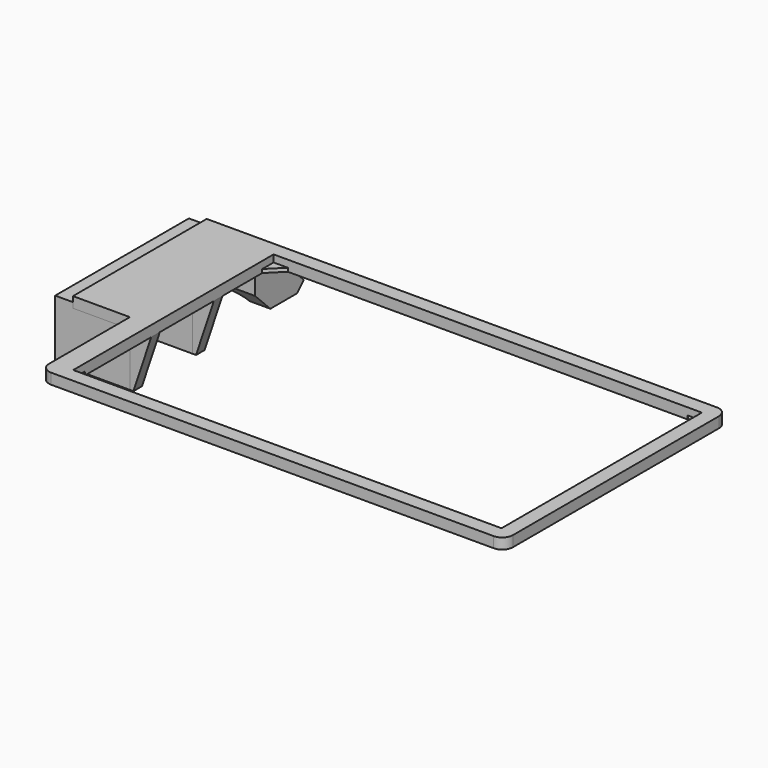
from build123d import *

# Parameters (mm, degrees)
SKETCH_W          = 47
SKETCH_H          = 16.5
SKETCH_R          = 1.6
PAD_DEPTH         = 5
PAD001_DEPTH      = 16
SKETCH002_W       = 6
SKETCH002_H       = 2
POCKET_DEPTH      = 3
PAD002_DEPTH      = 16
PAD002_DEPTH_BACK = 5
SKETCH004_R       = 4.625
POCKET001_DEPTH   = 44.902281
POCKET002_DEPTH   = 16
SKETCH006_W       = 3
SKETCH006_H       = 12
PAD003_DEPTH      = 16
SKETCH008_W       = 1.4
SKETCH008_H       = 16.5
POCKET003_DEPTH   = 1.6
SKETCH007_W       = 120.4
SKETCH007_H       = 70.4
PAD004_DEPTH      = 3
SKETCH009_W       = 6
SKETCH009_H       = 3
PAD005_DEPTH      = 15
POCKET004_DEPTH   = 47.001
PAD006_DEPTH      = 1
SKETCH012_W       = 1.8
SKETCH012_H       = 5.7
PAD007_DEPTH      = 11
SKETCH013_R       = 1.6
POCKET005_DEPTH   = 1.8
FILLET_R          = 3
CHAMFER_SIZE      = 1.2


with BuildPart() as lens_and_arm_mount:
    # Sketch → Pad (new body)
    with BuildSketch(Plane.YZ):
        Rectangle(SKETCH_W, SKETCH_H)
        with Locations((-15.8, 0)):
            Circle(SKETCH_R, mode=Mode.SUBTRACT)
        with Locations((15.8, 0)):
            Circle(SKETCH_R, mode=Mode.SUBTRACT)
    extrude(amount=PAD_DEPTH)

    # Sketch001 (on Face8 of Pad) → Pad001 (join)
    with BuildSketch(Plane.YZ.offset(5)):
        Polygon((-23.5, -8.25), (-23.5, 6.75), (23.5, 6.75), (23.5, -8.25), (20.5, -8.25), (20.5, 3.75), (-20.5, 3.75), (-20.5, -8.25), align=None)
    extrude(amount=PAD001_DEPTH)

    # Sketch002 (on Face11 of Pad001) → Pocket (cut)
    with BuildSketch(Plane(origin=(0, 0, 6.75), x_dir=(0, -1, 0), z_dir=(0, 0, 1))):
        with Locations((-15.8, 6)):
            Rectangle(SKETCH002_W, SKETCH002_H)
        with Locations((15.8, 6)):
            Rectangle(SKETCH002_W, SKETCH002_H)
    extrude(amount=-POCKET_DEPTH, mode=Mode.SUBTRACT)

    # Sketch003 (on Face8 of Pad) → Pad002 (join, two sides)
    with BuildSketch(Plane.YZ.offset(5)) as pad002_sk:
        Polygon((23.5, 8.25), (37.642136, -5.892136), (35.284271, -8.25), (23.5, -8.25), align=None)
    extrude(amount=PAD002_DEPTH)
    extrude(pad002_sk.sketch, amount=-PAD002_DEPTH_BACK)

    # Sketch004 (on Face3 of Pad002) → Pocket001 (cut, through all)
    with BuildSketch(Plane(origin=(0, 15.875, 15.875), x_dir=(0, -0.707107, 0.707107), z_dir=(0, 0.707107, 0.707107))):
        with Locations((-23.783378, 10.5)):
            Circle(SKETCH004_R)
    extrude(amount=-POCKET001_DEPTH, mode=Mode.SUBTRACT)

    # Sketch005 (on Face11 of Pocket001) → Pocket002 (cut)
    with BuildSketch(Plane.YZ.offset(21)):
        Polygon((30.571068, -12.963203), (18.550253, -0.942388), (15.014719, -4.477922), (27.035534, -16.498737), align=None)
    extrude(amount=-POCKET002_DEPTH, mode=Mode.SUBTRACT)

    # Sketch006 (on Face15 of Pocket) → Pad003 (join)
    with BuildSketch(Plane.YZ.offset(5)):
        with Locations((0, -2.25)):
            Rectangle(SKETCH006_W, SKETCH006_H)
    extrude(amount=PAD003_DEPTH)

    # Sketch008 (on Face4 of Pocket001) → Pocket003 (cut)
    with BuildSketch(Plane(origin=(0, 0, 0), x_dir=(0, 1, 0), z_dir=(-1, 0, 0))):
        with Locations((24.2, 0)):
            Rectangle(SKETCH008_W, SKETCH008_H)
    extrude(amount=-POCKET003_DEPTH, mode=Mode.SUBTRACT)


with BuildPart() as obj1:
    # Sketch007 → Pad004 (new body)
    with BuildSketch(Plane.XY.offset(6.75)):
        Polygon((5, 23.5), (21, 23.5), (151.4, 23.5), (151.4, -54.9), (21, -54.9), (21, -23.5), (5, -23.5), align=None)
        with Locations((87.2, -15.7)):
            Rectangle(SKETCH007_W, SKETCH007_H, mode=Mode.SUBTRACT)
    extrude(amount=PAD004_DEPTH)

    # Sketch009 (on Face12 of Pad004) → Pad005 (join)
    with BuildSketch(Plane(origin=(0, 0, 6.75), x_dir=(1, 0, 0), z_dir=(0, 0, -1))):
        with Locations((24, 0)):
            Rectangle(SKETCH009_W, SKETCH009_H)
        with Locations((24, 22)):
            Rectangle(SKETCH009_W, SKETCH009_H)
    extrude(amount=PAD005_DEPTH)

    # Sketch010 (on Face10 of Pad005) → Pocket004 (cut, through all)
    with BuildSketch(Plane.XZ.offset(23.5)):
        Polygon((27, 6.75), (22, -8.25), (27, -8.25), align=None)
    extrude(amount=-POCKET004_DEPTH, mode=Mode.SUBTRACT)

    # Sketch011 (on Face22 of Pocket004) → Pad006 (join)
    with BuildSketch(Plane(origin=(0, 0, 6.75), x_dir=(1, 0, 0), z_dir=(0, 0, -1))):
        Polygon((25, 52.9), (25, 44.9), (33, 52.9), align=None)
        Polygon((25, -21.5), (25, -13.5), (33, -21.5), align=None)
        Polygon((149.4, -21.5), (149.4, -13.5), (141.4, -21.5), align=None)
        Polygon((149.4, 52.9), (141.4, 52.9), (149.4, 44.9), align=None)
    extrude(amount=-PAD006_DEPTH)

    # Sketch012 (on Face2 of Pad006) → Pad007 (join)
    with BuildSketch(Plane(origin=(0, 0, 6.75), x_dir=(1, 0, 0), z_dir=(0, 0, -1))):
        with Locations((5.9, 15.75)):
            Rectangle(SKETCH012_W, SKETCH012_H)
        with Locations((5.9, -15.75)):
            Rectangle(SKETCH012_W, SKETCH012_H)
    extrude(amount=PAD007_DEPTH)

    # Sketch013 (on Face32 of Pad007) → Pocket005 (cut)
    with BuildSketch(Plane(origin=(5, 0, 0), x_dir=(0, -1, 0), z_dir=(-1, 0, 0))):
        with Locations((-15.75, 0)):
            Circle(SKETCH013_R)
        with Locations((15.75, 0)):
            Circle(SKETCH013_R)
    extrude(amount=-POCKET005_DEPTH, mode=Mode.SUBTRACT)

    # Fillet
    fillet_edges = [obj1.edges().sort_by_distance(p)[0] for p in [
        (21, -54.9, 8.25),
        (151.4, -54.9, 8.25),
        (151.4, 23.5, 8.25),
    ]]
    fillet(fillet_edges, radius=FILLET_R)

    # Chamfer
    chamfer_edges = [obj1.edges().sort_by_distance(p)[0] for p in [
        (6.8, 17.35, 0),
        (6.8, -14.15, 0),
    ]]
    chamfer(chamfer_edges, length=CHAMFER_SIZE)


solid = Compound([lens_and_arm_mount.part, obj1.part])
